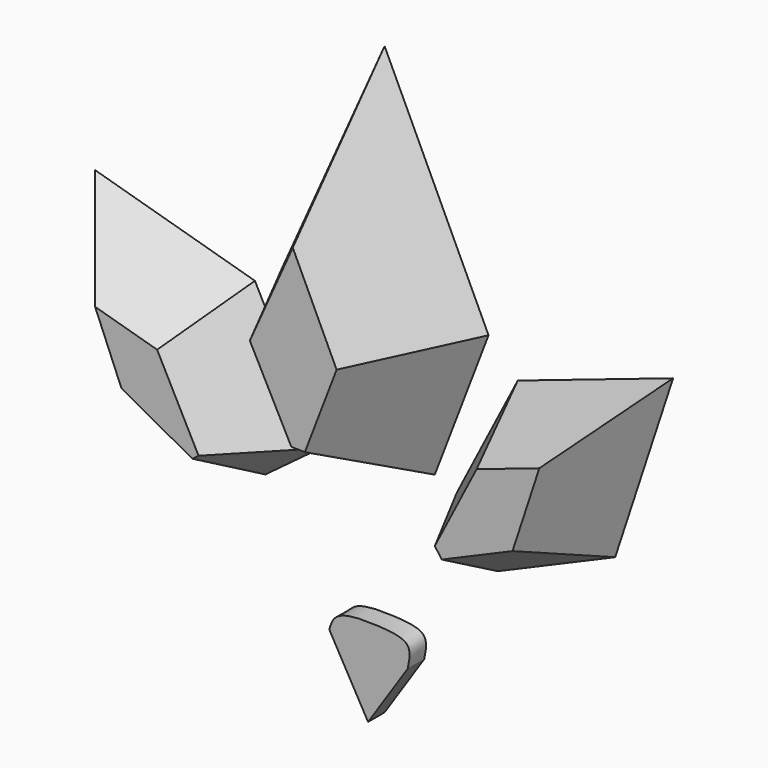
from build123d import *

# Parameters (mm, degrees)
F2_DEPTH = 3
F2_TAPER = 25
F3_DEPTH = 4
F3_TAPER = 25
F4_DEPTH = 3
F4_TAPER = 25
F5_DEPTH = 0.71


with BuildPart() as f2:
    # F1 (on offset) → F2 (new body)
    with BuildSketch(Plane.XZ.offset(0.1)):
        Polygon((-7.7553447336, 15.4156507924), (-4.0987459943, 13.4065309539), (-2.2101732902, 14.8129146546), (-4.4603878632, 19.1526152194), (-9.9653769284, 20.7197275013), align=None)
    extrude(amount=F2_DEPTH, taper=F2_TAPER)


with BuildPart() as f3:
    # F1 (on offset) → F3 (new body)
    with BuildSketch(Plane.XZ.offset(0.1)):
        Polygon((-3.5056970365, 19.8917096573), (-1.1557437313, 15.3596557775), (1.7277019797, 15.2951041237), (3.5760921892, 20.1169922948), (0, 27.7114659548), align=None)
    extrude(amount=F3_DEPTH, taper=F3_TAPER)


with BuildPart() as f4:
    # F1 (on offset) → F4 (new body)
    with BuildSketch(Plane.XZ.offset(0.1)):
        Polygon((4.5806518756, 19.0722495317), (2.4873625259, 15.0039009546), (3.8979109377, 13.0769368261), (7.9323425889, 14.8134101182), (9.9249109626, 20.8804570138), align=None)
    extrude(amount=F4_DEPTH, taper=F4_TAPER)


with BuildPart() as f5:
    # F1 (on offset) → F5 (new body)
    with BuildSketch(Plane.XZ.offset(0.1)):
        with BuildLine():
            add(Edge.make_bspline(
                [(1.363565214, 9.5887333155), (1.4177514223, 9.8544390363), (1.5344529232, 10.4266927033), (0.4599871868, 10.5763621916), (-1.1268164757, 10.5922729572), (-1.2781205396, 10.091780729), (-1.3362980681, 9.899337776)],
                knots=[0, 0, 0, 0, 0.2195963883, 0.4729474323, 0.7973444006, 1, 1, 1, 1], degree=3))
            Line((-1.3362980681, 9.899337776), (0, 7.5339702889))
            Line((0, 7.5339702889), (1.363565214, 9.5887333155))
        make_face()
    extrude(amount=F5_DEPTH)


solid = Compound([f2.part, f3.part, f4.part, f5.part])
